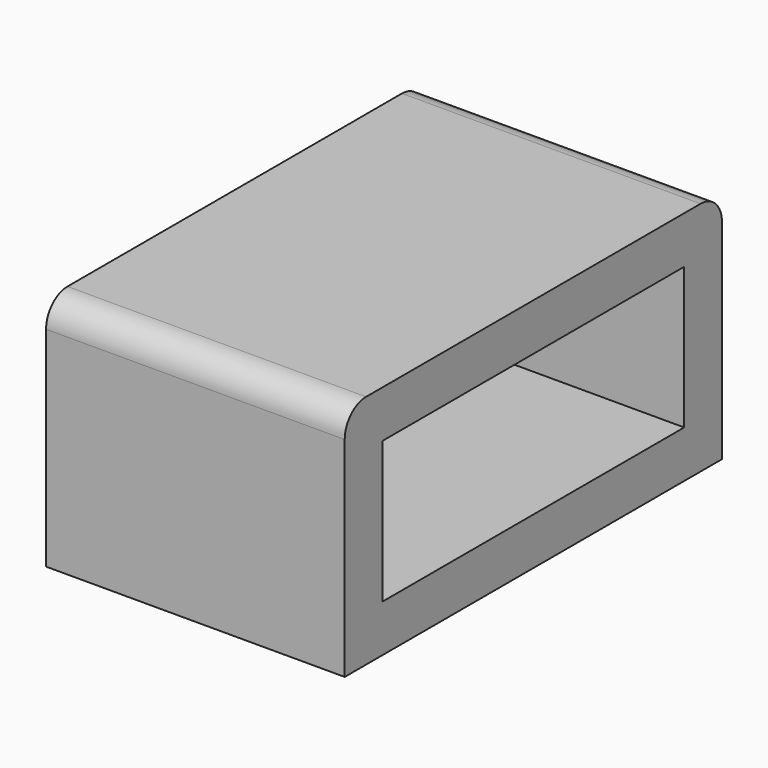
from build123d import *

# Parameters (mm, degrees)
F0_W     = 24
F0_H     = 9
F1_DEPTH = 19


with BuildPart() as f1:
    # F0 (on Right) → F1 (new body)
    with BuildSketch(Plane.YZ):
        with BuildLine():
            Line((-30, 0), (0, 0))
            Line((0, 0), (0, 13.3))
            ThreePointArc((0, 13.3), (-0.497918, 14.502082), (-1.7, 15))
            Line((-1.7, 15), (-13.862342, 15))
            Line((-13.862342, 15), (-28.3, 15))
            ThreePointArc((-28.3, 15), (-29.502082, 14.502082), (-30, 13.3))
            Line((-30, 13.3), (-30, 0))
        make_face()
        with Locations((-15, 7.5)):
            Rectangle(F0_W, F0_H, mode=Mode.SUBTRACT)
    extrude(amount=F1_DEPTH)


solid = f1.part
